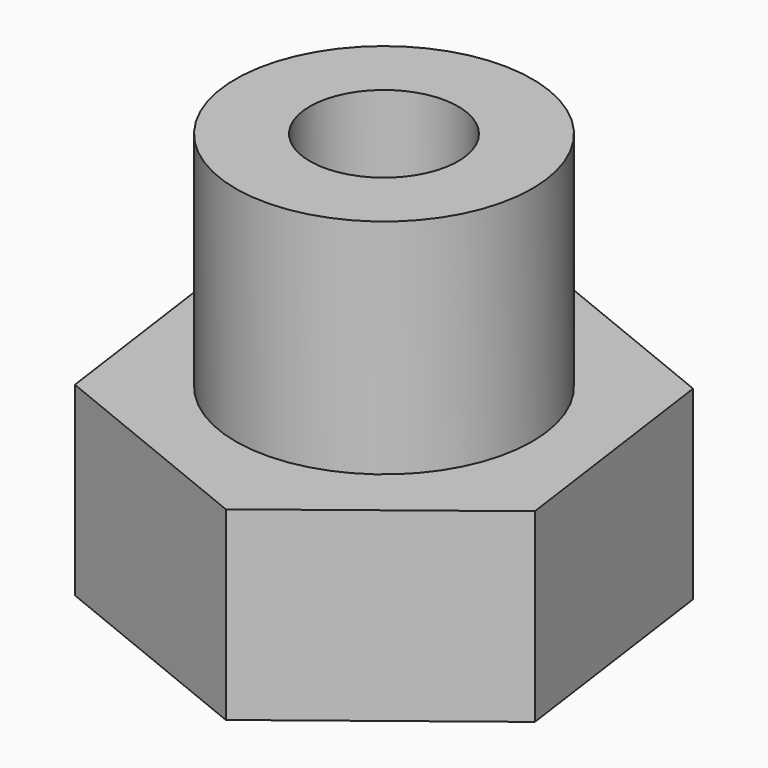
from build123d import *

# Parameters (mm, degrees)
F0_R     = 4
F1_DEPTH = 11
F3_DEPTH = 5
F6_D     = 4
F6_DEPTH = 8
F6_TIP   = 1.2017212381


with BuildPart() as f1:
    # F0 (on Top) → F1 (new body)
    with BuildSketch(Plane.XY):
        Circle(F0_R)
    extrude(amount=F1_DEPTH)

    # F2 (on Top) → F3 (join)
    with BuildSketch(Plane.XY):
        Polygon((0.8915454574, -6.4456966717), (6.0279097915, -2.4507473211), (5.1363643341, 3.9949493506), (-0.8915454574, 6.4456966717), (-6.0279097915, 2.4507473211), (-5.1363643341, -3.9949493506), align=None)
    extrude(amount=F3_DEPTH)

    # F6
    with Locations(Plane.XY.offset(11)):
        with Locations((0, 0)):
            Hole(F6_D / 2, depth=F6_DEPTH)
            with Locations((0, 0, -(F6_DEPTH + F6_TIP / 2))):  # 118° drill point
                Cone(0, F6_D / 2, F6_TIP, mode=Mode.SUBTRACT)


solid = f1.part
